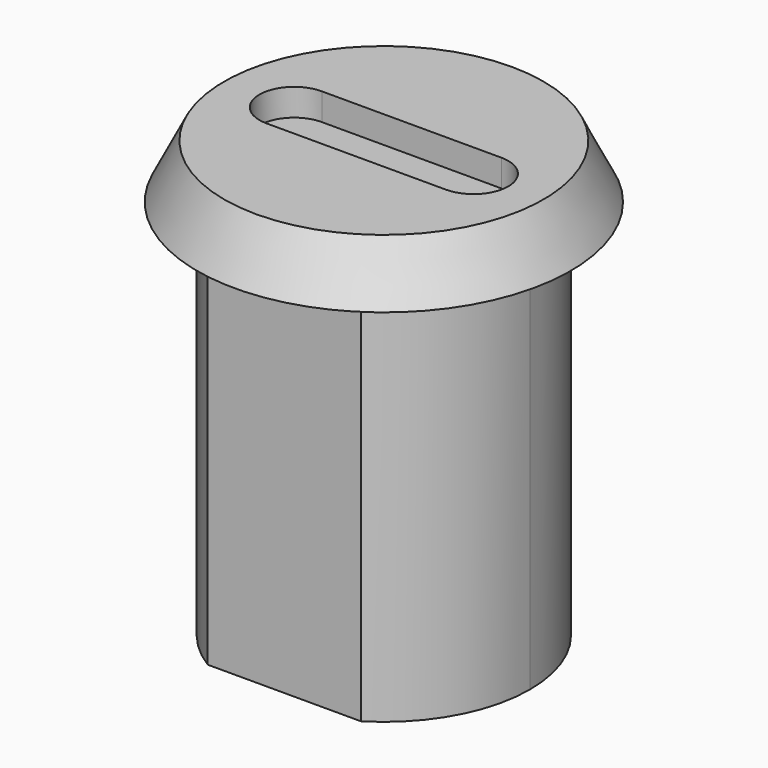
from build123d import *

# Parameters (mm, degrees)
PAD008_DEPTH    = 1
PAD009_DEPTH    = 13.1
POCKET001_DEPTH = 1


with BuildPart() as part:
    # Sketch012 → Pad008 (new body)
    with BuildSketch(Plane.XY):
        with BuildLine():
            ThreePointArc((-2.828427, 4.6), (-4.713465, 2.635004), (-5.4, 0))
            ThreePointArc((-5.4, 0), (-4.713465, -2.635004), (-2.828427, -4.6))
            Line((0, -4.6), (-2.828427, -4.6))
            Line((0, -4.6), (2.828427, -4.6))
            ThreePointArc((2.828427, -4.6), (4.713465, -2.635004), (5.4, 0))
            ThreePointArc((5.4, 0), (4.713465, 2.635004), (2.828427, 4.6))
            Line((0, 4.6), (2.828427, 4.6))
            Line((0, 4.6), (-2.828427, 4.6))
        make_face()
    extrude(amount=PAD008_DEPTH)

    # Sketch013 → Pad009 (join)
    with BuildSketch(Plane.XY):
        with BuildLine():
            ThreePointArc((-2.828427, 4.6), (-4.713465, 2.635004), (-5.4, 0))
            ThreePointArc((-5.4, 0), (-4.713465, -2.635004), (-2.828427, -4.6))
            Line((0, -4.6), (-2.828427, -4.6))
            Line((0, -4.6), (2.828427, -4.6))
            ThreePointArc((2.828427, -4.6), (4.713465, -2.635004), (5.4, 0))
            ThreePointArc((5.4, 0), (4.713465, 2.635004), (2.828427, 4.6))
            Line((0, 4.6), (2.828427, 4.6))
            Line((0, 4.6), (-2.828427, 4.6))
        make_face()
    extrude(amount=-PAD009_DEPTH)

    # Sketch014 → Revolution002 (revolve)
    with BuildSketch(Plane.YZ):
        Polygon((0, 1), (0, 3), (5.9, 3), (6.9, 1), align=None)
    revolve(axis=Axis((0, 0, 0), (0, 0, 1)))

    # Sketch015 (on Face1 of Revolution002) → Pocket001 (cut)
    with BuildSketch(Plane.XY.offset(3)):
        with BuildLine():
            ThreePointArc((-3.315, 1.28), (-4.595, 0), (-3.315, -1.28))
            Line((-3.315, -1.28), (3.315, -1.28))
            ThreePointArc((3.315, -1.28), (4.595, 0), (3.315, 1.28))
            Line((-3.315, 1.28), (3.315, 1.28))
        make_face()
    extrude(amount=-POCKET001_DEPTH, mode=Mode.SUBTRACT)


solid = part.part
